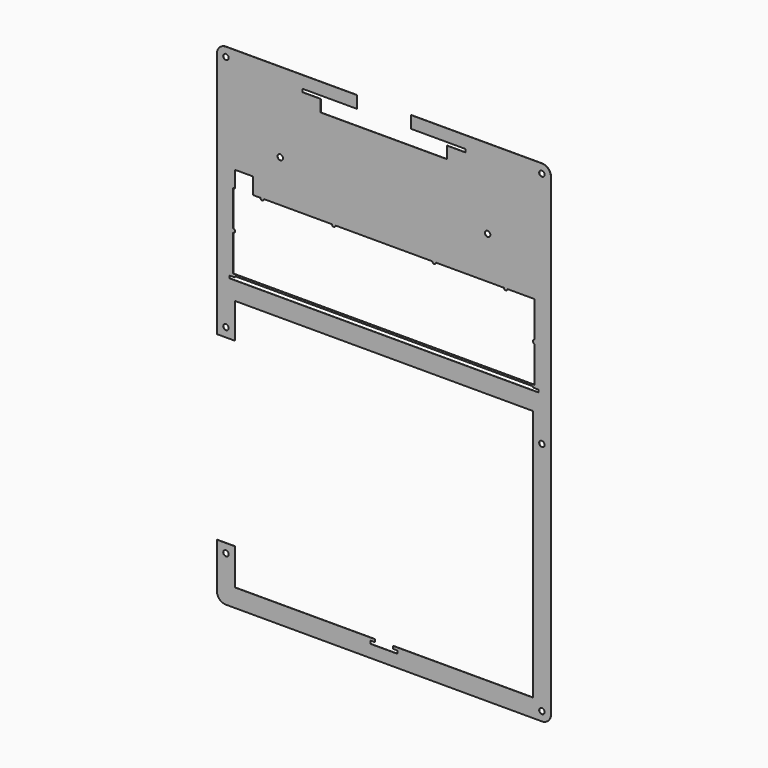
from build123d import *

# Parameters (mm, degrees)
F0_R     = 1.5
F0_W     = 3
F0_H     = 0.6
F0_W_2   = 57.3
F0_H_2   = 10
F0_W_3   = 1.3
F0_H_3   = 1
F0_W_4   = 30
F0_H_4   = 52.31
F1_DEPTH = 0.118


with BuildPart() as f1:
    # F0 (on Front) → F1 (new body)
    with BuildSketch(Plane.XZ):
        with BuildLine():
            Line((110.0284859866, 145.1858304774), (37.7284859866, 145.1858304774))
            Line((37.7284859866, 145.1858304774), (37.7284859866, 138.4858304774))
            Line((37.7284859866, 138.4858304774), (67.7284859866, 138.4858304774))
            Line((67.7284859866, 138.4858304774), (67.7284859866, 136.7858304774))
            Line((67.7284859866, 136.7858304774), (57.7284859866, 136.7858304774))
            Line((57.7284859866, 136.7858304774), (57.7284859866, 135.1858304774))
            Line((57.7284859866, 135.1858304774), (105.0284859866, 135.1858304774))
            Line((105.0284859866, 135.1858304774), (105.0284859866, 77.8758304774))
            Line((105.0284859866, 77.8758304774), (106.0284859866, 77.8758304774))
            Line((106.0284859866, 77.8758304774), (106.0284859866, 58.0508304774))
            ThreePointArc((106.0284859866, 58.0508304774), (106.7355927678, 57.7579372586), (107.0284859866, 57.0508304774))
            ThreePointArc((107.0284859866, 57.0508304774), (106.7355927678, 56.3437236962), (106.0284859866, 56.0508304774))
            Line((106.0284859866, 56.0508304774), (106.0284859866, 36.1258304774))
            Line((106.0284859866, 36.1258304774), (105.0284859866, 36.1258304774))
            Line((105.0284859866, 36.1258304774), (105.0284859866, 35.1258304774))
            Line((105.0284859866, 35.1258304774), (108.0284859866, 35.1258304774))
            Line((108.0284859866, 35.1258304774), (108.0284859866, 34.5258304774))
            Line((108.0284859866, 34.5258304774), (108.0284859866, 33.1258304774))
            Line((108.0284859866, 33.1258304774), (105.0284859866, 33.1258304774))
            Line((105.0284859866, 33.1258304774), (105.0284859866, 23.1258304774))
            Line((105.0284859866, 23.1258304774), (105.0284859866, -116.2741695226))
            Line((105.0284859866, -116.2741695226), (27.7284859866, -116.2741695226))
            Line((27.7284859866, -116.2741695226), (27.7284859866, -117.7541695226))
            Line((27.7284859866, -117.7541695226), (30.2284859866, -117.7541695226))
            Line((30.2284859866, -117.7541695226), (30.2284859866, -119.3541695226))
            Line((30.2284859866, -119.3541695226), (15.2284859866, -119.3541695226))
            Line((15.2284859866, -119.3541695226), (15.2284859866, -117.7541695226))
            Line((15.2284859866, -117.7541695226), (17.7284859866, -117.7541695226))
            Line((17.7284859866, -117.7541695226), (17.7284859866, -116.2741695226))
            Line((17.7284859866, -116.2741695226), (-59.5715140134, -116.2741695226))
            Line((-59.5715140134, -116.2741695226), (-59.5715140134, -96.2741695226))
            Line((-59.5715140134, -96.2741695226), (-69.5715140134, -96.2741695226))
            Line((-69.5715140134, -96.2741695226), (-69.5715140134, -121.2741695226))
            ThreePointArc((-69.5715140134, -121.2741695226), (-68.1070479193, -124.8097034285), (-64.5715140134, -126.2741695226))
            Line((-64.5715140134, -126.2741695226), (110.0284859866, -126.2741695226))
            ThreePointArc((110.0284859866, -126.2741695226), (113.5640198925, -124.8097034285), (115.0284859866, -121.2741695226))
            Line((115.0284859866, -121.2741695226), (115.0284859866, 140.1858304774))
            ThreePointArc((115.0284859866, 140.1858304774), (113.5640198925, 143.7213643833), (110.0284859866, 145.1858304774))
        make_face()
        with Locations((-64.5715140134, -101.2741695226)):
            Circle(F0_R, mode=Mode.SUBTRACT)
        with Locations((110.0284859866, -121.2741695226)):
            Circle(F0_R, mode=Mode.SUBTRACT)
        with Locations((110.0284859866, 8.7258304774)):
            Circle(F0_R, mode=Mode.SUBTRACT)
        with Locations((110.0284859866, 140.1858304774)):
            Circle(F0_R, mode=Mode.SUBTRACT)
        with Locations((-61.0715140134, 34.8258304774)):
            Rectangle(F0_W, F0_H)
        with Locations((106.5284859866, 34.8258304774)):
            Rectangle(F0_W, F0_H)
        with BuildLine():
            Line((7.7284859866, 77.8758304774), (7.7284859866, 130.1858304774))
            Line((7.7284859866, 130.1858304774), (-12.2715140134, 130.1858304774))
            Line((-12.2715140134, 130.1858304774), (-38.5766702966, 77.8758304774))
            Line((-38.5766702966, 77.8758304774), (-6.0381810134, 77.8758304774))
            ThreePointArc((-6.0381810134, 77.8758304774), (-5.0381810134, 78.8758304774), (-4.0381810134, 77.8758304774))
            Line((-4.0381810134, 77.8758304774), (7.7284859866, 77.8758304774))
        make_face()
        with Locations((66.3784859866, 28.1258304774)):
            Rectangle(F0_W_2, F0_H_2)
        with Locations((-20.9215140134, 28.1258304774)):
            Rectangle(F0_W_2, F0_H_2)
        with BuildLine():
            Line((105.0284859866, 135.1858304774), (57.7284859866, 135.1858304774))
            Line((57.7284859866, 135.1858304774), (57.7284859866, 130.1858304774))
            Line((57.7284859866, 130.1858304774), (84.0336422698, 77.8758304774))
            Line((84.0336422698, 77.8758304774), (89.0284859866, 77.8758304774))
            ThreePointArc((89.0284859866, 77.8758304774), (90.0284859866, 78.8758304774), (91.0284859866, 77.8758304774))
            Line((91.0284859866, 77.8758304774), (105.0284859866, 77.8758304774))
            Line((105.0284859866, 77.8758304774), (105.0284859866, 135.1858304774))
        make_face()
        with Locations((80.0284859866, 101.1258304774)):
            Circle(F0_R, mode=Mode.SUBTRACT)
        with BuildLine():
            Line((57.7284859866, 130.1858304774), (37.7284859866, 130.1858304774))
            Line((37.7284859866, 130.1858304774), (37.7284859866, 77.8758304774))
            Line((37.7284859866, 77.8758304774), (49.4951559866, 77.8758304774))
            ThreePointArc((49.4951559866, 77.8758304774), (50.4951559866, 78.8758304774), (51.4951559866, 77.8758304774))
            Line((51.4951559866, 77.8758304774), (84.0336422698, 77.8758304774))
            Line((84.0336422698, 77.8758304774), (57.7284859866, 130.1858304774))
        make_face()
        with BuildLine():
            ThreePointArc((107.0284859866, 57.0508304774), (106.7355927678, 57.7579372586), (106.0284859866, 58.0508304774))
            Line((106.0284859866, 58.0508304774), (106.0284859866, 56.0508304774))
            ThreePointArc((106.0284859866, 56.0508304774), (106.7355927678, 56.3437236962), (107.0284859866, 57.0508304774))
        make_face()
        with BuildLine():
            ThreePointArc((51.4951559866, 77.8758304774), (50.4951559866, 78.8758304774), (49.4951559866, 77.8758304774))
            Line((49.4951559866, 77.8758304774), (51.4951559866, 77.8758304774))
        make_face()
        with BuildLine():
            Line((-60.5715140134, 56.0008304774), (-60.5715140134, 58.0008304774))
            ThreePointArc((-60.5715140134, 58.0008304774), (-61.5715140134, 57.0008304774), (-60.5715140134, 56.0008304774))
        make_face()
        Polygon((37.7284859866, 36.1258304774), (37.7284859866, 35.1258304774), (95.0284859866, 35.1258304774), (95.0284859866, 36.1258304774), (85.0284859866, 36.1258304774), align=None)
        with BuildLine():
            Line((-6.0381810134, 77.8758304774), (-4.0381810134, 77.8758304774))
            ThreePointArc((-4.0381810134, 77.8758304774), (-5.0381810134, 78.8758304774), (-6.0381810134, 77.8758304774))
        make_face()
        Polygon((-49.5715140134, 36.1258304774), (-49.5715140134, 35.1258304774), (7.7284859866, 35.1258304774), (7.7284859866, 36.1258304774), (-39.5715140134, 36.1258304774), align=None)
        with BuildLine():
            Line((51.4951559866, 77.8758304774), (49.4951559866, 77.8758304774))
            ThreePointArc((49.4951559866, 77.8758304774), (49.7880492054, 77.1687236962), (50.4951559866, 76.8758304774))
            ThreePointArc((50.4951559866, 76.8758304774), (51.2022627678, 77.1687236962), (51.4951559866, 77.8758304774))
        make_face()
        with BuildLine():
            Line((106.0284859866, 56.0508304774), (106.0284859866, 58.0508304774))
            ThreePointArc((106.0284859866, 58.0508304774), (105.3213792054, 57.7579372586), (105.0284859866, 57.0508304774))
            ThreePointArc((105.0284859866, 57.0508304774), (105.3213792054, 56.3437236962), (106.0284859866, 56.0508304774))
        make_face()
        with BuildLine():
            ThreePointArc((-5.0381810151, 76.8758304774), (-4.3310742328, 77.1687236956), (-4.0381810134, 77.8758304774))
            Line((-4.0381810134, 77.8758304774), (-6.0381810134, 77.8758304774))
            ThreePointArc((-6.0381810134, 77.8758304774), (-5.7452877952, 77.1687236968), (-5.0381810151, 76.8758304774))
        make_face()
        with BuildLine():
            ThreePointArc((-60.5715140134, 56.0008304774), (-59.8644072322, 56.2937236962), (-59.5715140134, 57.0008304774))
            ThreePointArc((-59.5715140134, 57.0008304774), (-59.8644072322, 57.7079372586), (-60.5715140134, 58.0008304774))
            Line((-60.5715140134, 58.0008304774), (-60.5715140134, 56.0008304774))
        make_face()
        with BuildLine():
            Line((7.7284859866, 145.1858304774), (-64.5715140134, 145.1858304774))
            ThreePointArc((-64.5715140134, 145.1858304774), (-68.1070479193, 143.7213643833), (-69.5715140134, 140.1858304774))
            Line((-69.5715140134, 140.1858304774), (-69.5715140134, 3.7258304774))
            Line((-69.5715140134, 3.7258304774), (-59.5715140134, 3.7258304774))
            Line((-59.5715140134, 3.7258304774), (-59.5715140134, 23.1258304774))
            Line((-59.5715140134, 23.1258304774), (-59.5715140134, 33.1258304774))
            Line((-59.5715140134, 33.1258304774), (-62.5715140134, 33.1258304774))
            Line((-62.5715140134, 33.1258304774), (-62.5715140134, 34.5258304774))
            Line((-62.5715140134, 34.5258304774), (-62.5715140134, 35.1258304774))
            Line((-62.5715140134, 35.1258304774), (-59.5715140134, 35.1258304774))
            Line((-59.5715140134, 35.1258304774), (-59.5715140134, 36.1258304774))
            Line((-59.5715140134, 36.1258304774), (-60.5715140134, 36.1258304774))
            Line((-60.5715140134, 36.1258304774), (-60.5715140134, 56.0008304774))
            ThreePointArc((-60.5715140134, 56.0008304774), (-61.5715140134, 57.0008304774), (-60.5715140134, 58.0008304774))
            Line((-60.5715140134, 58.0008304774), (-60.5715140134, 77.8758304774))
            Line((-60.5715140134, 77.8758304774), (-59.5715140134, 77.8758304774))
            Line((-59.5715140134, 77.8758304774), (-59.5715140134, 86.9258304774))
            Line((-59.5715140134, 86.9258304774), (-59.5715140134, 135.1858304774))
            Line((-59.5715140134, 135.1858304774), (-12.2715140134, 135.1858304774))
            Line((-12.2715140134, 135.1858304774), (-12.2715140134, 136.7858304774))
            Line((-12.2715140134, 136.7858304774), (-22.2715140134, 136.7858304774))
            Line((-22.2715140134, 136.7858304774), (-22.2715140134, 138.4858304774))
            Line((-22.2715140134, 138.4858304774), (7.7284859866, 138.4858304774))
            Line((7.7284859866, 138.4858304774), (7.7284859866, 145.1858304774))
        make_face()
        with Locations((-64.5715140134, 8.7258304774)):
            Circle(F0_R, mode=Mode.SUBTRACT)
        with Locations((-64.5715140134, 140.1858304774)):
            Circle(F0_R, mode=Mode.SUBTRACT)
        with BuildLine():
            Line((-12.2715140134, 130.1858304774), (-12.2715140134, 135.1858304774))
            Line((-12.2715140134, 135.1858304774), (-59.5715140134, 135.1858304774))
            Line((-59.5715140134, 135.1858304774), (-59.5715140134, 86.9258304774))
            Line((-59.5715140134, 86.9258304774), (-49.5715140134, 86.9258304774))
            Line((-49.5715140134, 86.9258304774), (-49.5715140134, 77.8758304774))
            Line((-49.5715140134, 77.8758304774), (-45.5715140134, 77.8758304774))
            ThreePointArc((-45.5715140134, 77.8758304774), (-44.5715140134, 78.8758304774), (-43.5715140134, 77.8758304774))
            Line((-43.5715140134, 77.8758304774), (-38.5766702966, 77.8758304774))
            Line((-38.5766702966, 77.8758304774), (-12.2715140134, 130.1858304774))
        make_face()
        with Locations((-34.5715140134, 101.1258304774)):
            Circle(F0_R, mode=Mode.SUBTRACT)
        with BuildLine():
            ThreePointArc((90.0284859866, 76.8758304774), (90.7355927678, 77.1687236962), (91.0284859866, 77.8758304774))
            Line((91.0284859866, 77.8758304774), (89.0284859866, 77.8758304774))
            ThreePointArc((89.0284859866, 77.8758304774), (89.3213792054, 77.1687236962), (90.0284859866, 76.8758304774))
        make_face()
        with BuildLine():
            Line((89.0284859866, 77.8758304774), (91.0284859866, 77.8758304774))
            ThreePointArc((91.0284859866, 77.8758304774), (90.0284859866, 78.8758304774), (89.0284859866, 77.8758304774))
        make_face()
        with BuildLine():
            ThreePointArc((-44.5715140134, 76.8758304774), (-43.8644072322, 77.1687236962), (-43.5715140134, 77.8758304774))
            Line((-43.5715140134, 77.8758304774), (-45.5715140134, 77.8758304774))
            ThreePointArc((-45.5715140134, 77.8758304774), (-45.2786207946, 77.1687236962), (-44.5715140134, 76.8758304774))
        make_face()
        with BuildLine():
            Line((-45.5715140134, 77.8758304774), (-43.5715140134, 77.8758304774))
            ThreePointArc((-43.5715140134, 77.8758304774), (-44.5715140134, 78.8758304774), (-45.5715140134, 77.8758304774))
        make_face()
        Polygon((-59.5715140134, 33.1258304774), (-59.5715140134, 23.1258304774), (-49.5715140134, 23.1258304774), (-49.5715140134, 33.1258304774), (-58.2715140134, 33.1258304774), align=None)
        Polygon((-58.2715140134, 36.1258304774), (-58.2715140134, 35.1258304774), (-49.5715140134, 35.1258304774), (-49.5715140134, 36.1258304774), (-52.2715140134, 36.1258304774), (-55.2715140134, 36.1258304774), align=None)
        with Locations((-58.9215140134, 35.6258304774)):
            Rectangle(F0_W_3, F0_H_3)
        with Locations((22.7284859866, 35.6258304774)):
            Rectangle(F0_W_4, F0_H_3)
        with Locations((22.7284859866, 28.1258304774)):
            Rectangle(F0_W_4, F0_H_2)
        Polygon((95.0284859866, 36.1258304774), (95.0284859866, 35.1258304774), (103.7284859866, 35.1258304774), (103.7284859866, 36.1258304774), (100.7284859866, 36.1258304774), (97.7284859866, 36.1258304774), align=None)
        with Locations((104.3784859866, 35.6258304774)):
            Rectangle(F0_W_3, F0_H_3)
        Polygon((95.0284859866, 33.1258304774), (95.0284859866, 23.1258304774), (105.0284859866, 23.1258304774), (105.0284859866, 33.1258304774), (103.7284859866, 33.1258304774), align=None)
        with Locations((22.7284859866, 104.0308304774)):
            Rectangle(F0_W_4, F0_H_4)
    extrude(amount=F1_DEPTH)


solid = f1.part
